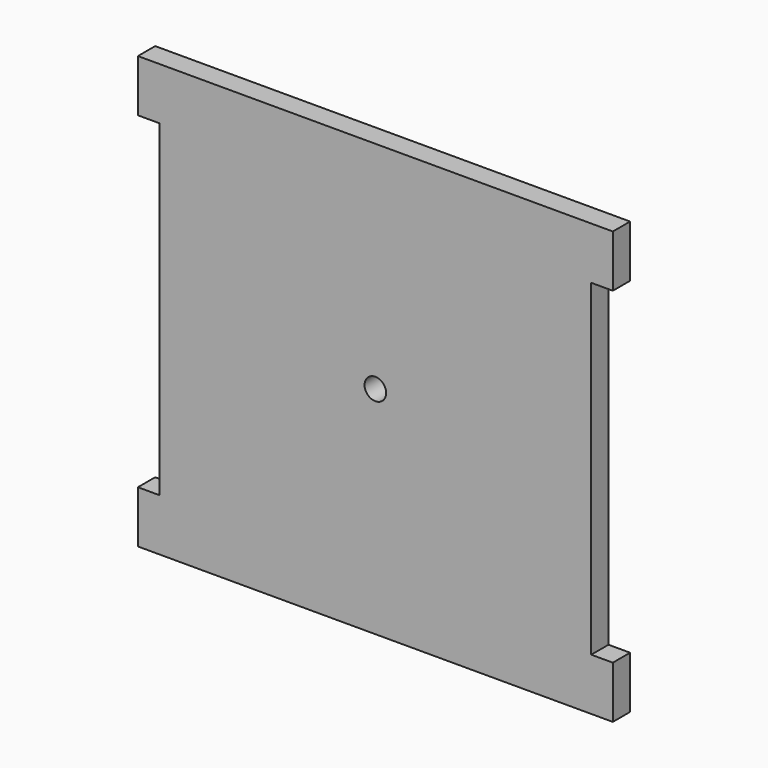
from build123d import *

# Parameters (mm, degrees)
F0_R     = 3
F1_DEPTH = 6


with BuildPart() as f1:
    # F0 (on Front) → F1 (new body)
    with BuildSketch(Plane.XZ):
        Polygon((0, 42.03254), (-132, 42.03254), (-132, 27.53254), (-126, 27.53254), (-126, -63.46746), (-132, -63.46746), (-132, -77.96746), (0, -77.96746), (0, -63.46746), (-6, -63.46746), (-6, 27.53254), (0, 27.53254), align=None)
        with Locations((-66, -17.96746)):
            Circle(F0_R, mode=Mode.SUBTRACT)
    extrude(amount=F1_DEPTH)


solid = f1.part
